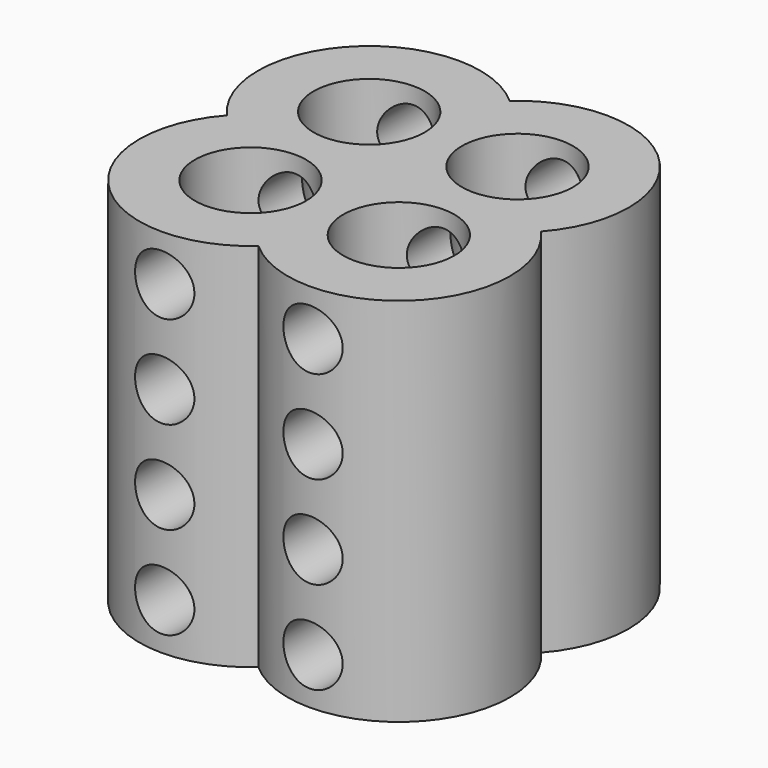
from build123d import *

# Parameters (mm, degrees)
CYLINDER002_R     = 0.08
CYLINDER002_DEPTH = 2
ARRAY004_X_COUNT  = 2
ARRAY004_X_PITCH  = 0.4
ARRAY004_Z_COUNT  = 4
ARRAY004_Z_PITCH  = 0.25
CYLINDER001_R     = 0.15
CYLINDER001_DEPTH = 1
ARRAY003_X_COUNT  = 2
ARRAY003_X_PITCH  = 0.4
ARRAY003_Y_COUNT  = 2
ARRAY003_Y_PITCH  = 0.4
CYLINDER_R        = 0.3
CYLINDER_DEPTH    = 1
ARRAY002_X_COUNT  = 2
ARRAY002_X_PITCH  = 0.4
ARRAY002_Y_COUNT  = 2
ARRAY002_Y_PITCH  = 0.4


with BuildPart() as array004:
    # Cylinder002 → Cylinder002 (new body)
    with BuildSketch(Plane.XZ.offset(-1)):
        Circle(CYLINDER002_R)
    extrude(amount=CYLINDER002_DEPTH)

    # Array004 X: Array004 ×2


with BuildPart() as array004_1:
    add(array004.part)
    with Locations(*[(i * ARRAY004_X_PITCH, 0, 0) for i in range(1, ARRAY004_X_COUNT)]):
        add(array004.part)

    # Array004 Z: Array004 ×4


with BuildPart() as array004_2:
    add(array004_1.part)
    with Locations(*[(0, 0, i * ARRAY004_Z_PITCH) for i in range(1, ARRAY004_Z_COUNT)]):
        add(array004_1.part)


with BuildPart() as array004_3:
    # Array004 placement: moved
    add(array004_2.part.moved(Location((0, 0, 0.125))))


with BuildPart() as array003:
    # Cylinder001 → Cylinder001 (new body)
    with BuildSketch(Plane.XY):
        Circle(CYLINDER001_R)
    extrude(amount=CYLINDER001_DEPTH)

    # Array003 X: Array003 ×2


with BuildPart() as array003_1:
    add(array003.part)
    with Locations(*[(i * ARRAY003_X_PITCH, 0, 0) for i in range(1, ARRAY003_X_COUNT)]):
        add(array003.part)

    # Array003 Y: Array003 ×2


with BuildPart() as array003_2:
    add(array003_1.part)
    with Locations(*[(0, i * ARRAY003_Y_PITCH, 0) for i in range(1, ARRAY003_Y_COUNT)]):
        add(array003_1.part)


with BuildPart() as cut002:
    # Cylinder → Cylinder (new body)
    with BuildSketch(Plane.XY):
        Circle(CYLINDER_R)
    extrude(amount=CYLINDER_DEPTH)

    # Array002 X: Cut002 ×2


with BuildPart() as cut002_1:
    add(cut002.part)
    with Locations(*[(i * ARRAY002_X_PITCH, 0, 0) for i in range(1, ARRAY002_X_COUNT)]):
        add(cut002.part)

    # Array002 Y: Cut002 ×2


with BuildPart() as cut002_2:
    add(cut002_1.part)
    with Locations(*[(0, i * ARRAY002_Y_PITCH, 0) for i in range(1, ARRAY002_Y_COUNT)]):
        add(cut002_1.part)

    # Cut001: cut Array003
    add(array003_2.part, mode=Mode.SUBTRACT)

    # Cut002: cut Array004
    add(array004_3.part, mode=Mode.SUBTRACT)


solid = cut002_2.part
